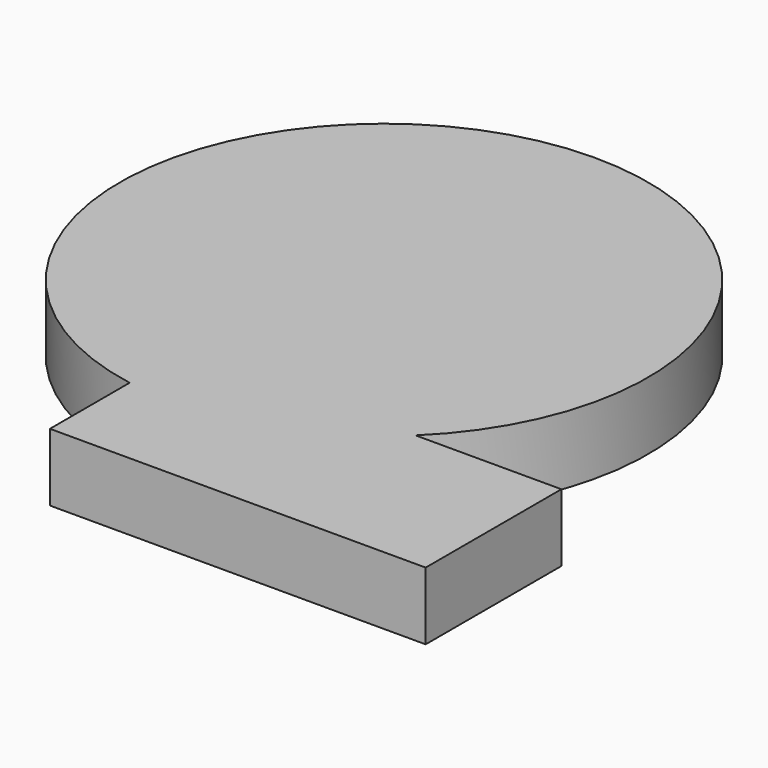
from build123d import *

# Parameters (mm, degrees)
F1_DEPTH = 25.4
F3_DEPTH = 25.4
F4_T     = -2.54


with BuildPart() as f1:
    # F0 (on Top) → F1 (new body)
    with BuildSketch(Plane.XY):
        with BuildLine():
            Line((19.2348733544, 7.6057617553), (-35.5748815684, 7.6057617553))
            ThreePointArc((-35.5748815684, 7.6057617553), (-75.5952649714, -15.9430811399), (-121.9473853707, -18.71075596))
            Line((-121.9473853707, -18.71075596), (-121.9473853707, -56.1465583742))
            Line((-121.9473853707, -56.1465583742), (19.2348733544, -56.1465583742))
            Line((19.2348733544, -56.1465583742), (19.2348733544, 7.6057617553))
        make_face()
        with BuildLine():
            Line((-35.5748815684, 7.6057617553), (-121.9473853707, 7.6057617553))
            Line((-121.9473853707, 7.6057617553), (-121.9473853707, -18.71075596))
            ThreePointArc((-121.9473853707, -18.71075596), (-75.5952649714, -15.9430811399), (-35.5748815684, 7.6057617553))
        make_face()
        with BuildLine():
            Line((-121.9473853707, -18.71075596), (-121.9473853707, 7.6057617553))
            Line((-121.9473853707, 7.6057617553), (-35.5748815684, 7.6057617553))
            ThreePointArc((-35.5748815684, 7.6057617553), (-13.1607449358, 40.2200486566), (-5.2712796474, 78.9994448423))
            ThreePointArc((-5.2712796474, 78.9994448423), (-168.2469260973, 155.0924750547), (-121.9473853707, -18.71075596))
        make_face()
    extrude(amount=F1_DEPTH)

    # F2 (on face) → F3 (join)
    with BuildSketch(Plane.XY.offset(25.4)):
        with BuildLine():
            ThreePointArc((-149.3627248428, -9.5459612091), (-95.718013043, 19.6715775936), (-74.3504000093, 76.8978372216))
            ThreePointArc((-74.3504000093, 76.8978372216), (-97.8658435535, 136.509233554), (-155.7459184192, 164.0118078208))
            ThreePointArc((-155.7459184192, 164.0118078208), (-203.7075635009, 75.3515840449), (-149.3627248428, -9.5459612091))
        make_face()
    extrude(amount=-F3_DEPTH)

    # F4
    f4_openings = [f1.faces().sort_by_distance(p)[0] for p in [
        (-92.78675, 58.561614, 0),
    ]]
    offset(amount=F4_T, openings=f4_openings, kind=Kind.INTERSECTION)


solid = f1.part
